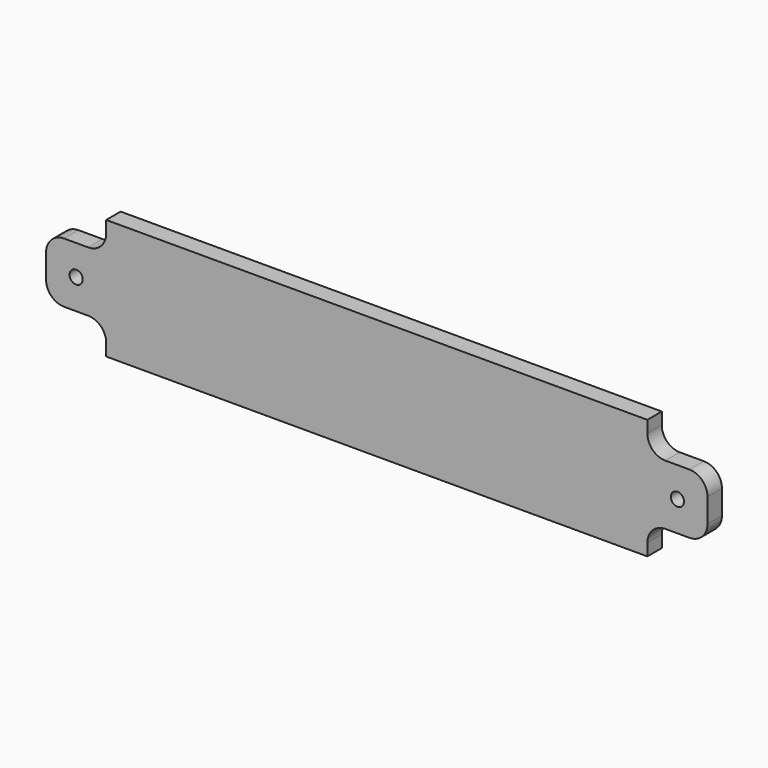
from build123d import *

# Parameters (mm, degrees)
F0_R     = 1.1
F1_DEPTH = 3
F2_R     = 3


with BuildPart() as f1:
    # F0 (on Front) → F1 (new body)
    with BuildSketch(Plane.XZ):
        with BuildLine():
            Line((36.86291, 20), (-53.13709, 20))
            Line((-53.13709, 20), (-53.13709, 15))
            Line((-53.13709, 15), (-63.13709, 15))
            Line((-63.13709, 15), (-63.13709, 5))
            Line((-63.13709, 5), (-53.13709, 5))
            Line((-53.13709, 5), (-53.13709, 0))
            Line((-53.13709, 0), (36.86291, 0))
            Line((36.86291, 0), (36.86291, 2))
            ThreePointArc((36.86291, 2), (37.74159, 4.12132), (39.86291, 5))
            Line((39.86291, 5), (46.86291, 5))
            Line((46.86291, 5), (46.86291, 15))
            Line((46.86291, 15), (39.86291, 15))
            ThreePointArc((39.86291, 15), (37.74159, 15.87868), (36.86291, 18))
            Line((36.86291, 18), (36.86291, 20))
        make_face()
        with Locations((-58.13709, 10)):
            Circle(F0_R, mode=Mode.SUBTRACT)
        with Locations((41.86291, 10)):
            Circle(F0_R, mode=Mode.SUBTRACT)
    extrude(amount=F1_DEPTH)

    # F2
    f2_edges = [f1.edges().sort_by_distance(p)[0] for p in [
        (-53.13709, -1.5, 15),
        (-53.13709, -1.5, 5),
        (-63.13709, -1.5, 15),
        (-63.13709, -1.5, 5),
        (46.86291, -1.5, 5),
        (46.86291, -1.5, 15),
    ]]
    fillet(f2_edges, radius=F2_R)


solid = f1.part
